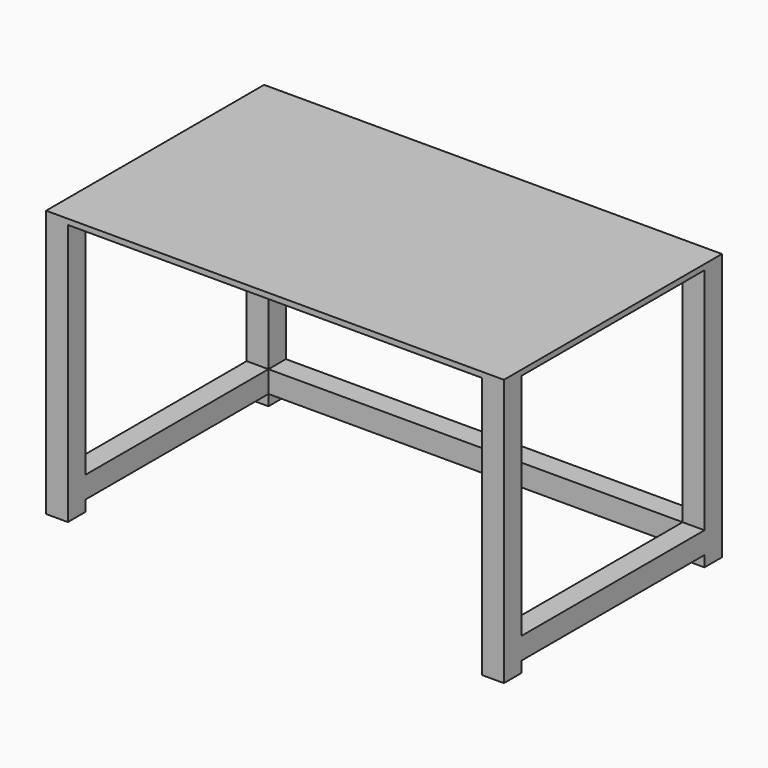
from build123d import *

# Parameters (mm, degrees)
F0_W     = 101.6
F0_H     = 101.6
F1_DEPTH = 1219.2
F2_W     = 2133.6
F2_H     = 1270
F3_DEPTH = 25.4
F4_W     = 101.6
F4_H     = 101.6
F5_DEPTH = 1066.8
F6_W     = 101.6
F6_H     = 101.6
F7_DEPTH = 1930.4


with BuildPart() as f1:
    # F0 (on Top) → F1 (new body)
    with BuildSketch(Plane.XY):
        with Locations((-1016, 584.2)):
            Rectangle(F0_W, F0_H)
        with Locations((-1016, -584.2)):
            Rectangle(F0_W, F0_H)
        with Locations((1016, -584.2)):
            Rectangle(F0_W, F0_H)
        with Locations((1016, 584.2)):
            Rectangle(F0_W, F0_H)
    extrude(amount=F1_DEPTH)

    # F2 (on face) → F3 (join)
    with BuildSketch(Plane.XY.offset(1219.2)):
        Rectangle(F2_W, F2_H)
    extrude(amount=F3_DEPTH)

    # F4 (on face) → F5 (join, through all)
    with BuildSketch(Plane.XZ.offset(-533.4)):
        with Locations((-1016, 101.6)):
            Rectangle(F4_W, F4_H)
        with Locations((1016, 101.6)):
            Rectangle(F4_W, F4_H)
    extrude(amount=F5_DEPTH)

    # F6 (on face) → F7 (join, through all)
    with BuildSketch(Plane(origin=(965.2, 0, 0), x_dir=(0, -1, 0), z_dir=(-1, 0, 0))):
        with Locations((-584.2, 101.6)):
            Rectangle(F6_W, F6_H)
    extrude(amount=F7_DEPTH)


solid = f1.part
